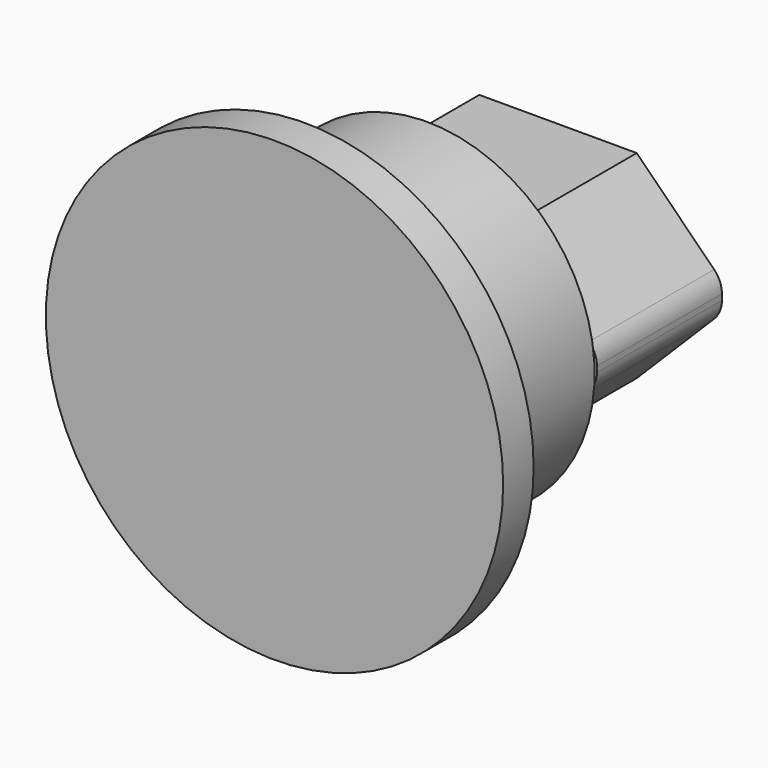
from build123d import *

# Parameters (mm, degrees)
F0_W      = 39
F0_H      = 22
F1_DEPTH  = 20
F2_SIZE   = 10
F3_R      = 1.5
F5_DEPTH  = 20
F6_T      = -2
F7_R      = 2.25
F8_DEPTH  = 1.5
F10_R     = 2.25
F11_DEPTH = 20
F13_DEPTH = 1
F14_R     = 30
F15_DEPTH = 5
F16_R     = 22
F17_DEPTH = 20
F18_R     = 2.25
F19_DEPTH = 20


with BuildPart() as f1:
    # F0 (on Front) → F1 (new body)
    with BuildSketch(Plane.XZ):
        Rectangle(F0_W, F0_H)
    extrude(amount=F1_DEPTH)

    # F2
    f2_edges = [f1.edges().sort_by_distance(p)[0] for p in [
        (19.5, -10, 11),
        (-19.5, -10, 11),
        (19.5, -10, -11),
        (-19.5, -10, -11),
    ]]
    chamfer(f2_edges, length=F2_SIZE)

    # F3
    f3_edges = [f1.edges().sort_by_distance(p)[0] for p in [
        (19.5, -10, -1),
        (-19.5, -10, 1),
        (-19.5, -10, -1),
        (19.5, -10, 1),
    ]]
    fillet(f3_edges, radius=F3_R)

    # F4 (on face) → F5 (join, through all)
    with BuildSketch(Plane.XZ.offset(20)):
        with BuildLine():
            ThreePointArc((-20.4748737342, 2.8535533906), (-21.2335783638, 1.7180716697), (-21.5, 0.3786796564))
            Line((-21.5, 0.3786796564), (-21.5, -0.3786796564))
            ThreePointArc((-21.5, -0.3786796564), (-21.2335783638, -1.7180716697), (-20.4748737342, -2.8535533906))
            Line((-20.4748737342, -2.8535533906), (-10.3284271247, -13))
            Line((-10.3284271247, -13), (10.3284271247, -13))
            Line((10.3284271247, -13), (20.4748737342, -2.8535533906))
            ThreePointArc((20.4748737342, -2.8535533906), (21.2335783638, -1.7180716697), (21.5, -0.3786796564))
            Line((21.5, -0.3786796564), (21.5, 0.3786796564))
            ThreePointArc((21.5, 0.3786796564), (21.2335783638, 1.7180716697), (20.4748737342, 2.8535533906))
            Line((20.4748737342, 2.8535533906), (10.3284271247, 13))
            Line((10.3284271247, 13), (-10.3284271247, 13))
            Line((-10.3284271247, 13), (-20.4748737342, 2.8535533906))
        make_face()
    extrude(amount=-F5_DEPTH)

    # F6
    f6_openings = [f1.faces().sort_by_distance(p)[0] for p in [
        (0, -20, 0),
        (0, 0, 0),
    ]]
    offset(amount=F6_T, openings=f6_openings)

    # F7 (on face) → F8 (join)
    with BuildSketch(Plane.XZ.offset(20)):
        with BuildLine():
            Line((10.3284271247, 13), (-10.3284271247, 13))
            Line((-10.3284271247, 13), (-20.4748737342, 2.8535533906))
            ThreePointArc((-20.4748737342, 2.8535533906), (-21.2335783638, 1.7180716697), (-21.5, 0.3786796564))
            Line((-21.5, 0.3786796564), (-21.5, -0.3786796564))
            ThreePointArc((-21.5, -0.3786796564), (-21.2335783638, -1.7180716697), (-20.4748737342, -2.8535533906))
            Line((-20.4748737342, -2.8535533906), (-10.3284271247, -13))
            Line((-10.3284271247, -13), (10.3284271247, -13))
            Line((10.3284271247, -13), (20.4748737342, -2.8535533906))
            ThreePointArc((20.4748737342, -2.8535533906), (21.2335783638, -1.7180716697), (21.5, -0.3786796564))
            Line((21.5, -0.3786796564), (21.5, 0.3786796564))
            ThreePointArc((21.5, 0.3786796564), (21.2335783638, 1.7180716697), (20.4748737342, 2.8535533906))
            Line((20.4748737342, 2.8535533906), (10.3284271247, 13))
        make_face()
        with Locations((-8.5, -2)):
            Circle(F7_R, mode=Mode.SUBTRACT)
        with Locations((8.5, -2)):
            Circle(F7_R, mode=Mode.SUBTRACT)
        with Locations((0, 3)):
            Circle(F7_R, mode=Mode.SUBTRACT)
    extrude(amount=F8_DEPTH)

    # F10 (on face) → F11 (join)
    with BuildSketch(Plane.XZ.offset(21.5)):
        with BuildLine():
            ThreePointArc((-21.5, -0.3786796564), (-21.2335783638, -1.7180716697), (-20.4748737342, -2.8535533906))
            Line((-20.4748737342, -2.8535533906), (-10.3284271247, -13))
            Line((-10.3284271247, -13), (10.3284271247, -13))
            Line((10.3284271247, -13), (20.4748737342, -2.8535533906))
            ThreePointArc((20.4748737342, -2.8535533906), (21.2335783638, -1.7180716697), (21.5, -0.3786796564))
            Line((21.5, -0.3786796564), (21.5, 0.3786796564))
            ThreePointArc((21.5, 0.3786796564), (21.2335783638, 1.7180716697), (20.4748737342, 2.8535533906))
            Line((20.4748737342, 2.8535533906), (10.3284271247, 13))
            Line((10.3284271247, 13), (-10.3284271247, 13))
            Line((-10.3284271247, 13), (-20.4748737342, 2.8535533906))
            ThreePointArc((-20.4748737342, 2.8535533906), (-21.2335783638, 1.7180716697), (-21.5, 0.3786796564))
            Line((-21.5, 0.3786796564), (-21.5, -0.3786796564))
        make_face()
        with Locations((-8.5, -2)):
            Circle(F10_R, mode=Mode.SUBTRACT)
        with Locations((8.5, -2)):
            Circle(F10_R, mode=Mode.SUBTRACT)
        with Locations((0, 3)):
            Circle(F10_R, mode=Mode.SUBTRACT)
    extrude(amount=F11_DEPTH)

    # F12 (on offset) → F13 (cut)
    with BuildSketch(Plane.XZ.offset(21.5)):
        with BuildLine():
            Line((20.4748737342, 2.8535533906), (10.3284271247, 13))
            Line((10.3284271247, 13), (-10.3284271247, 13))
            Line((-10.3284271247, 13), (-20.4748737342, 2.8535533906))
            ThreePointArc((-20.4748737342, 2.8535533906), (-21.2335783638, 1.7180716697), (-21.5, 0.3786796564))
            Line((-21.5, 0.3786796564), (-21.5, -0.3786796564))
            ThreePointArc((-21.5, -0.3786796564), (-21.2335783638, -1.7180716697), (-20.4748737342, -2.8535533906))
            Line((-20.4748737342, -2.8535533906), (-10.3284271247, -13))
            Line((-10.3284271247, -13), (10.3284271247, -13))
            Line((10.3284271247, -13), (20.4748737342, -2.8535533906))
            ThreePointArc((20.4748737342, -2.8535533906), (21.2335783638, -1.7180716697), (21.5, -0.3786796564))
            Line((21.5, -0.3786796564), (21.5, 0.3786796564))
            ThreePointArc((21.5, 0.3786796564), (21.2335783638, 1.7180716697), (20.4748737342, 2.8535533906))
        make_face()
        with BuildLine():
            Line((-10.1213203436, 12.5), (10.1213203436, 12.5))
            Line((10.1213203436, 12.5), (20.1213203436, 2.5))
            ThreePointArc((20.1213203436, 2.5), (20.7716385975, 1.5267299535), (21, 0.3786796564))
            Line((21, 0.3786796564), (21, -0.3786796564))
            ThreePointArc((21, -0.3786796564), (20.7716385975, -1.5267299535), (20.1213203436, -2.5))
            Line((20.1213203436, -2.5), (10.1213203436, -12.5))
            Line((10.1213203436, -12.5), (-10.1213203436, -12.5))
            Line((-10.1213203436, -12.5), (-20.1213203436, -2.5))
            ThreePointArc((-20.1213203436, -2.5), (-20.7716385975, -1.5267299535), (-21, -0.3786796564))
            Line((-21, -0.3786796564), (-21, 0.3786796564))
            ThreePointArc((-21, 0.3786796564), (-20.7716385975, 1.5267299535), (-20.1213203436, 2.5))
            Line((-20.1213203436, 2.5), (-10.1213203436, 12.5))
        make_face(mode=Mode.SUBTRACT)
    extrude(amount=-F13_DEPTH, mode=Mode.SUBTRACT)

    # F14 (on face) → F15 (join)
    with BuildSketch(Plane.XZ.offset(41.5)):
        Circle(F14_R)
    extrude(amount=F15_DEPTH)

    # F16 (on face) → F17 (join, through all)
    with BuildSketch(Plane(origin=(0, -41.5, 0), x_dir=(-1, 0, 0), z_dir=(0, 1, 0))):
        Circle(F16_R)
    extrude(amount=F17_DEPTH)

    # F18 (on face) → F19 (cut)
    with BuildSketch(Plane(origin=(0, -20, 0), x_dir=(-1, 0, 0), z_dir=(0, 1, 0))):
        with Locations((8.5, -2)):
            Circle(F18_R)
        with Locations((0, 3)):
            Circle(F18_R)
        with Locations((-8.5, -2)):
            Circle(F18_R)
    extrude(amount=-F19_DEPTH, mode=Mode.SUBTRACT)


solid = f1.part
